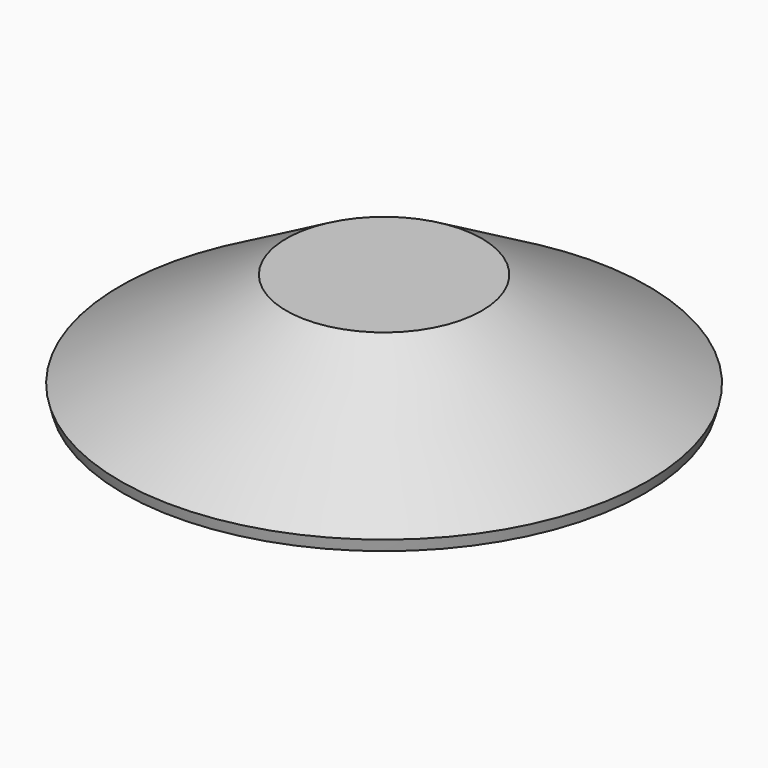
from build123d import *


with BuildPart() as f2:
    # F2: sweep along a path in F1
    with BuildLine(Plane.XY) as f2_path:
        CenterArc((0, 0), 40.005, 0, 360)
    # F0 (on Front) → F2 (sweep)
    with BuildSketch(Plane.XZ):
        Polygon((107.95, -39.2280640401), (40.005, 0), (0, 0), (0, -4.826), (38.7118771973, -4.826), (106.6568771973, -44.0540640401), align=None)
    sweep(path=f2_path.line)


solid = f2.part
